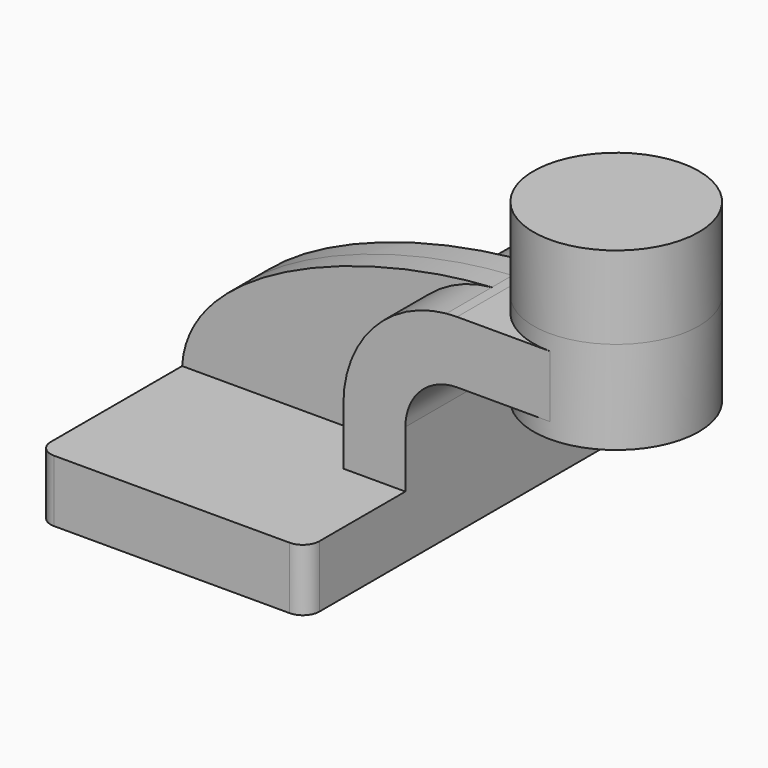
from build123d import *

# Parameters (mm, degrees)
F1_DEPTH = 63.5
F0_W     = 25.4
F0_H     = 19.05
F2_DEPTH = 25.4
F3_DEPTH = 7.9375
F5_R     = 5.08
F6_DEPTH = 25.4


with BuildPart() as f1:
    # F0 (on Front) → F1 (new body, symmetric)
    with BuildSketch(Plane.XZ):
        Polygon((22.225, 9.525), (-41.275, 9.525), (-41.275, -9.525), (41.275, -9.525), (41.275, 9.525), align=None)
    extrude(amount=F1_DEPTH, both=True)

    # F0 (on Front) → F2 (join, symmetric)
    with BuildSketch(Plane.XZ):
        with BuildLine():
            Line((22.225, 27.0002), (22.225, 9.525))
            Line((22.225, 9.525), (41.275, 9.525))
            Line((41.275, 9.525), (41.275, 27.0002))
            ThreePointArc((41.275, 27.0002), (45.9246798487, 38.2255201513), (57.15, 42.8752))
            Line((57.15, 42.8752), (60.325, 42.8752))
            Line((60.325, 42.8752), (60.325, 61.9252))
            Line((60.325, 61.9252), (57.15, 61.9252))
            add(Edge.make_bspline(
                [(53.8854342407, 61.7722898912), (54.9842067368, 61.8365871986), (56.0728453275, 61.8876096574), (57.15, 61.9252)],
                knots=[108.5245810491, 108.5245810491, 108.5245810491, 108.5245810491, 111.5045361635, 111.5045361635, 111.5045361635, 111.5045361635], degree=3))
            ThreePointArc((53.8854342407, 61.7722898912), (31.3258777096, 50.5133948686), (22.225, 27.0002))
        make_face()
        with Locations((73.025, 52.4002)):
            Rectangle(F0_W, F0_H)
    extrude(amount=F2_DEPTH, both=True)

    # F0 (on Front) → F3 (join, symmetric)
    with BuildSketch(Plane.XZ):
        with BuildLine():
            add(Edge.make_bspline(
                [(-41.275, 9.525), (-39.5856284224, 39.4828766469), (13.870125209, 59.4306981306), (53.8854342407, 61.7722898912)],
                knots=[0, 0, 0, 0, 108.5245810491, 108.5245810491, 108.5245810491, 108.5245810491], degree=3))
            Line((-41.275, 9.525), (22.225, 9.525))
            Line((22.225, 9.525), (22.225, 27.0002))
            ThreePointArc((22.225, 27.0002), (31.3258777096, 50.5133948686), (53.8854342407, 61.7722898912))
        make_face()
    extrude(amount=F3_DEPTH, both=True)

    # F0 (on Front) → F4 (revolve)
    with BuildSketch(Plane.XZ):
        Polygon((85.725, 66.675), (85.725, 61.9252), (85.725, 42.8752), (85.725, 38.1), (111.125, 38.1), (111.125, 66.675), align=None)
    revolve(axis=Axis((85.725, 0, 52.3875), (0, 0, 1)))

    # F5
    f5_edges = [f1.edges().sort_by_distance(p)[0] for p in [
        (41.275, -63.5, 0),
        (-41.275, -63.5, 0),
        (41.275, 63.5, 0),
        (-41.275, 63.5, 0),
    ]]
    fillet(f5_edges, radius=F5_R)

    # F6 (add): a face of the model
    f6_faces = [f1.faces().sort_by_distance(p)[0] for p in [
        (85.725, 0, 66.675),
    ]]
    extrude(f6_faces, amount=F6_DEPTH)


solid = f1.part
